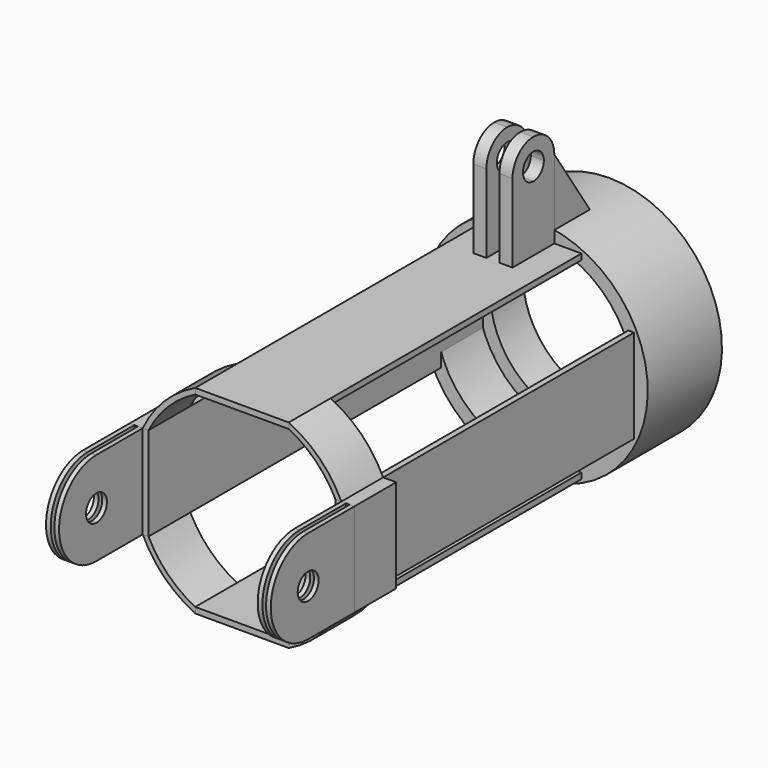
from build123d import *

# Parameters (mm, degrees)
F1_DEPTH  = 25.4
F2_DEPTH  = 203.2
F3_DEPTH  = 25.4
F6_DEPTH  = 63.5
F8_DEPTH  = 63.5
F5_R      = 6.35
F5_R_2    = 5.55625
F9_W      = 6.35
F9_H      = 25.4
F10_DEPTH = 50.8
F12_DEPTH = 12.7
F14_DEPTH = 50.8
F17_DEPTH = 63.5
F18_DEPTH = 9.525
F19_DEPTH = 3.175
F24_W     = 25.4079867154
F24_H     = 6.6675


with BuildPart() as f1:
    # F0 (on Front) → F1 (new body)
    with BuildSketch(Plane.XZ):
        with BuildLine():
            ThreePointArc((-22.7184506514, -45.4369013028), (-35.9210244843, -35.9210244843), (-45.4369013028, -22.7184506514))
            Line((-45.4369013028, -22.7184506514), (-48.26, -22.7184506514))
            ThreePointArc((-48.26, -22.7184506514), (-37.7170757085, -37.7170757085), (-22.7184506514, -48.26))
            Line((-22.7184506514, -48.26), (-22.7184506514, -45.4369013028))
        make_face()
    extrude(amount=F1_DEPTH)


with BuildPart() as f1b:
    # F0 (on Front) → F1, piece 2 (new body)
    with BuildSketch(Plane.XZ):
        with BuildLine():
            Line((48.26, -22.7184506514), (45.4369013028, -22.7184506514))
            ThreePointArc((45.4369013028, -22.7184506514), (35.9210244843, -35.9210244843), (22.7184506514, -45.4369013028))
            Line((22.7184506514, -45.4369013028), (22.7184506514, -48.26))
            ThreePointArc((22.7184506514, -48.26), (37.7170757085, -37.7170757085), (48.26, -22.7184506514))
        make_face()
    extrude(amount=F1_DEPTH)


with BuildPart() as f1c:
    # F0 (on Front) → F1, piece 3 (new body)
    with BuildSketch(Plane.XZ):
        with BuildLine():
            ThreePointArc((-45.4369013028, 22.7184506514), (-35.9210244843, 35.9210244843), (-22.7184506514, 45.4369013028))
            Line((-22.7184506514, 45.4369013028), (-22.7184506514, 48.26))
            ThreePointArc((-22.7184506514, 48.26), (-37.7170757085, 37.7170757085), (-48.26, 22.7184506514))
            Line((-48.26, 22.7184506514), (-45.4369013028, 22.7184506514))
        make_face()
    extrude(amount=F1_DEPTH)


with BuildPart() as f1d:
    # F0 (on Front) → F1, piece 4 (new body)
    with BuildSketch(Plane.XZ):
        with BuildLine():
            ThreePointArc((22.7184506514, 45.4369013028), (35.9210244843, 35.9210244843), (45.4369013028, 22.7184506514))
            Line((45.4369013028, 22.7184506514), (48.26, 22.7184506514))
            ThreePointArc((48.26, 22.7184506514), (37.7170757085, 37.7170757085), (22.7184506514, 48.26))
            Line((22.7184506514, 48.26), (22.7184506514, 45.4369013028))
        make_face()
    extrude(amount=F1_DEPTH)


with BuildPart() as f2:
    # F0 (on Front) → F2 (new body)
    with BuildSketch(Plane.XZ):
        with BuildLine():
            Line((-22.7184506514, 45.4369013028), (22.7184506514, 45.4369013028))
            ThreePointArc((22.7184506514, 45.4369013028), (19.3419480326, 46.9737059034), (15.8622949159, 48.26))
            Line((15.8622949159, 48.26), (0, 48.26))
            Line((0, 48.26), (-15.8622949159, 48.26))
            ThreePointArc((-15.8622949159, 48.26), (-19.3419480326, 46.9737059034), (-22.7184506514, 45.4369013028))
        make_face()
        with BuildLine():
            Line((-22.7184506514, 48.26), (-22.7184506514, 45.4369013028))
            ThreePointArc((-22.7184506514, 45.4369013028), (-19.3419480326, 46.9737059034), (-15.8622949159, 48.26))
            Line((-15.8622949159, 48.26), (-22.7184506514, 48.26))
        make_face()
        with BuildLine():
            ThreePointArc((15.8622949159, 48.26), (19.3419480326, 46.9737059034), (22.7184506514, 45.4369013028))
            Line((22.7184506514, 45.4369013028), (22.7184506514, 48.26))
            Line((22.7184506514, 48.26), (15.8622949159, 48.26))
        make_face()
    extrude(amount=F2_DEPTH)


with BuildPart() as f2b:
    # F0 (on Front) → F2, piece 2 (new body)
    with BuildSketch(Plane.XZ):
        with BuildLine():
            Line((48.26, 22.7184506514), (45.4369013028, 22.7184506514))
            ThreePointArc((45.4369013028, 22.7184506514), (46.9737059034, 19.3419480326), (48.26, 15.8622949159))
            Line((48.26, 15.8622949159), (48.26, 22.7184506514))
        make_face()
        with BuildLine():
            Line((48.26, 0), (45.4369013028, 0))
            Line((45.4369013028, 0), (45.4369013028, -22.7184506514))
            ThreePointArc((45.4369013028, -22.7184506514), (46.9737059034, -19.3419480326), (48.26, -15.8622949159))
            Line((48.26, -15.8622949159), (48.26, 0))
        make_face()
        with BuildLine():
            ThreePointArc((48.26, 15.8622949159), (46.9737059034, 19.3419480326), (45.4369013028, 22.7184506514))
            Line((45.4369013028, 22.7184506514), (45.4369013028, 0))
            Line((45.4369013028, 0), (48.26, 0))
            Line((48.26, 0), (48.26, 15.8622949159))
        make_face()
        with BuildLine():
            ThreePointArc((48.26, -15.8622949159), (46.9737059034, -19.3419480326), (45.4369013028, -22.7184506514))
            Line((45.4369013028, -22.7184506514), (48.26, -22.7184506514))
            Line((48.26, -22.7184506514), (48.26, -15.8622949159))
        make_face()
    extrude(amount=F2_DEPTH)


with BuildPart() as f2c:
    # F0 (on Front) → F2, piece 3 (new body)
    with BuildSketch(Plane.XZ):
        with BuildLine():
            Line((22.7184506514, -48.26), (22.7184506514, -45.4369013028))
            ThreePointArc((22.7184506514, -45.4369013028), (19.3419480326, -46.9737059034), (15.8622949159, -48.26))
            Line((15.8622949159, -48.26), (22.7184506514, -48.26))
        make_face()
        with BuildLine():
            ThreePointArc((15.8622949159, -48.26), (19.3419480326, -46.9737059034), (22.7184506514, -45.4369013028))
            Line((22.7184506514, -45.4369013028), (-22.7184506514, -45.4369013028))
            ThreePointArc((-22.7184506514, -45.4369013028), (-19.3419480326, -46.9737059034), (-15.8622949159, -48.26))
            Line((-15.8622949159, -48.26), (0, -48.26))
            Line((0, -48.26), (15.8622949159, -48.26))
        make_face()
        with BuildLine():
            ThreePointArc((-15.8622949159, -48.26), (-19.3419480326, -46.9737059034), (-22.7184506514, -45.4369013028))
            Line((-22.7184506514, -45.4369013028), (-22.7184506514, -48.26))
            Line((-22.7184506514, -48.26), (-15.8622949159, -48.26))
        make_face()
    extrude(amount=F2_DEPTH)


with BuildPart() as f2d:
    # F0 (on Front) → F2, piece 4 (new body)
    with BuildSketch(Plane.XZ):
        with BuildLine():
            Line((-48.26, -22.7184506514), (-45.4369013028, -22.7184506514))
            ThreePointArc((-45.4369013028, -22.7184506514), (-46.9737059034, -19.3419480326), (-48.26, -15.8622949159))
            Line((-48.26, -15.8622949159), (-48.26, -22.7184506514))
        make_face()
        with BuildLine():
            Line((-45.4369013028, -22.7184506514), (-45.4369013028, 22.7184506514))
            ThreePointArc((-45.4369013028, 22.7184506514), (-46.9737059034, 19.3419480326), (-48.26, 15.8622949159))
            Line((-48.26, 15.8622949159), (-48.26, 0))
            Line((-48.26, 0), (-48.26, -15.8622949159))
            ThreePointArc((-48.26, -15.8622949159), (-46.9737059034, -19.3419480326), (-45.4369013028, -22.7184506514))
        make_face()
        with BuildLine():
            ThreePointArc((-48.26, 15.8622949159), (-46.9737059034, 19.3419480326), (-45.4369013028, 22.7184506514))
            Line((-45.4369013028, 22.7184506514), (-48.26, 22.7184506514))
            Line((-48.26, 22.7184506514), (-48.26, 15.8622949159))
        make_face()
    extrude(amount=F2_DEPTH)


with BuildPart() as f3:
    # F0 (on Front) → F3 (new body)
    with BuildSketch(Plane.XZ):
        with BuildLine():
            Line((-48.26, 0), (-48.26, 15.8622949159))
            ThreePointArc((-48.26, 15.8622949159), (-49.6966311254, 10.5301877848), (-50.546, 5.0736460263))
            Line((-50.546, 5.0736460263), (-50.546, -5.0736460263))
            ThreePointArc((-50.546, -5.0736460263), (-49.6966311254, -10.5301877848), (-48.26, -15.8622949159))
            Line((-48.26, -15.8622949159), (-48.26, 0))
        make_face()
        with BuildLine():
            Line((-48.26, 15.8622949159), (-48.26, 22.7184506514))
            ThreePointArc((-48.26, 22.7184506514), (-49.4846065613, 19.910532727), (-50.546, 17.0369446791))
            Line((-50.546, 17.0369446791), (-50.546, 5.0736460263))
            ThreePointArc((-50.546, 5.0736460263), (-49.6966311254, 10.5301877848), (-48.26, 15.8622949159))
        make_face()
        with BuildLine():
            ThreePointArc((-52.324, 10.3612076516), (-51.5431915117, 13.7278916366), (-50.546, 17.0369446791))
            Line((-50.546, 17.0369446791), (-50.546, 22.7184506514))
            Line((-50.546, 22.7184506514), (-52.324, 22.7184506514))
            Line((-52.324, 22.7184506514), (-52.324, 10.3612076516))
        make_face()
        with BuildLine():
            Line((-50.546, -22.7184506514), (-48.26, -22.7184506514))
            ThreePointArc((-48.26, -22.7184506514), (-49.4846065613, -19.910532727), (-50.546, -17.0369446791))
            Line((-50.546, -17.0369446791), (-50.546, -22.7184506514))
        make_face()
        with BuildLine():
            ThreePointArc((-50.546, 17.0369446791), (-49.4846065613, 19.910532727), (-48.26, 22.7184506514))
            Line((-48.26, 22.7184506514), (-50.546, 22.7184506514))
            Line((-50.546, 22.7184506514), (-50.546, 17.0369446791))
        make_face()
        with BuildLine():
            Line((-48.26, -22.7184506514), (-48.26, -15.8622949159))
            ThreePointArc((-48.26, -15.8622949159), (-49.6966311254, -10.5301877848), (-50.546, -5.0736460263))
            Line((-50.546, -5.0736460263), (-50.546, -17.0369446791))
            ThreePointArc((-50.546, -17.0369446791), (-49.4846065613, -19.910532727), (-48.26, -22.7184506514))
        make_face()
        with BuildLine():
            Line((-50.546, 5.0736460263), (-50.546, 17.0369446791))
            ThreePointArc((-50.546, 17.0369446791), (-51.5431915117, 13.7278916366), (-52.324, 10.3612076516))
            Line((-52.324, 10.3612076516), (-52.324, -10.3612076516))
            ThreePointArc((-52.324, -10.3612076516), (-51.5431915117, -13.7278916366), (-50.546, -17.0369446791))
            Line((-50.546, -17.0369446791), (-50.546, -5.0736460263))
            ThreePointArc((-50.546, -5.0736460263), (-50.8, 0), (-50.546, 5.0736460263))
        make_face()
        with BuildLine():
            Line((-50.546, -22.7184506514), (-50.546, -17.0369446791))
            ThreePointArc((-50.546, -17.0369446791), (-51.5431915117, -13.7278916366), (-52.324, -10.3612076516))
            Line((-52.324, -10.3612076516), (-52.324, -22.7184506514))
            Line((-52.324, -22.7184506514), (-50.546, -22.7184506514))
        make_face()
        with BuildLine():
            ThreePointArc((-52.324, -10.3612076516), (-53.34, 0), (-52.324, 10.3612076516))
            Line((-52.324, 10.3612076516), (-52.324, 22.7184506514))
            Line((-52.324, 22.7184506514), (-54.61, 22.7184506514))
            Line((-54.61, 22.7184506514), (-54.61, -22.7184506514))
            Line((-54.61, -22.7184506514), (-52.324, -22.7184506514))
            Line((-52.324, -22.7184506514), (-52.324, -10.3612076516))
        make_face()
        with BuildLine():
            Line((-52.324, -10.3612076516), (-52.324, 10.3612076516))
            ThreePointArc((-52.324, 10.3612076516), (-53.34, 0), (-52.324, -10.3612076516))
        make_face()
        with BuildLine():
            Line((-48.26, -22.7184506514), (-48.26, -15.8622949159))
            ThreePointArc((-48.26, -15.8622949159), (-49.6966311254, -10.5301877848), (-50.546, -5.0736460263))
            Line((-50.546, -5.0736460263), (-50.546, -17.0369446791))
            ThreePointArc((-50.546, -17.0369446791), (-49.4846065613, -19.910532727), (-48.26, -22.7184506514))
        make_face()
        with BuildLine():
            Line((-50.546, 5.0736460263), (-50.546, 17.0369446791))
            ThreePointArc((-50.546, 17.0369446791), (-51.5431915117, 13.7278916366), (-52.324, 10.3612076516))
            Line((-52.324, 10.3612076516), (-52.324, -10.3612076516))
            ThreePointArc((-52.324, -10.3612076516), (-51.5431915117, -13.7278916366), (-50.546, -17.0369446791))
            Line((-50.546, -17.0369446791), (-50.546, -5.0736460263))
            ThreePointArc((-50.546, -5.0736460263), (-50.8, 0), (-50.546, 5.0736460263))
        make_face()
        with BuildLine():
            ThreePointArc((-52.324, -10.3612076516), (-53.34, 0), (-52.324, 10.3612076516))
            Line((-52.324, 10.3612076516), (-52.324, 22.7184506514))
            Line((-52.324, 22.7184506514), (-54.61, 22.7184506514))
            Line((-54.61, 22.7184506514), (-54.61, -22.7184506514))
            Line((-54.61, -22.7184506514), (-52.324, -22.7184506514))
            Line((-52.324, -22.7184506514), (-52.324, -10.3612076516))
        make_face()
    extrude(amount=F3_DEPTH)


with BuildPart() as f3b:
    # F0 (on Front) → F3, piece 2 (new body)
    with BuildSketch(Plane.XZ):
        with BuildLine():
            ThreePointArc((50.546, -17.0369446791), (49.4846065613, -19.910532727), (48.26, -22.7184506514))
            Line((48.26, -22.7184506514), (50.546, -22.7184506514))
            Line((50.546, -22.7184506514), (50.546, -17.0369446791))
        make_face()
        with BuildLine():
            Line((50.546, 22.7184506514), (50.546, 17.0369446791))
            ThreePointArc((50.546, 17.0369446791), (51.5431915117, 13.7278916366), (52.324, 10.3612076516))
            Line((52.324, 10.3612076516), (52.324, 22.7184506514))
            Line((52.324, 22.7184506514), (50.546, 22.7184506514))
        make_face()
        with BuildLine():
            Line((48.26, 22.7184506514), (48.26, 15.8622949159))
            ThreePointArc((48.26, 15.8622949159), (49.6966311254, 10.5301877848), (50.546, 5.0736460263))
            Line((50.546, 5.0736460263), (50.546, 17.0369446791))
            ThreePointArc((50.546, 17.0369446791), (49.4846065613, 19.910532727), (48.26, 22.7184506514))
        make_face()
        with BuildLine():
            ThreePointArc((50.546, 5.0736460263), (49.6966311254, 10.5301877848), (48.26, 15.8622949159))
            Line((48.26, 15.8622949159), (48.26, 0))
            Line((48.26, 0), (48.26, -15.8622949159))
            ThreePointArc((48.26, -15.8622949159), (49.6966311254, -10.5301877848), (50.546, -5.0736460263))
            Line((50.546, -5.0736460263), (50.546, 5.0736460263))
        make_face()
        with BuildLine():
            Line((50.546, 22.7184506514), (48.26, 22.7184506514))
            ThreePointArc((48.26, 22.7184506514), (49.4846065613, 19.910532727), (50.546, 17.0369446791))
            Line((50.546, 17.0369446791), (50.546, 22.7184506514))
        make_face()
        with BuildLine():
            Line((50.546, 17.0369446791), (50.546, 5.0736460263))
            ThreePointArc((50.546, 5.0736460263), (50.7364602628, 2.54), (50.8, 0))
            ThreePointArc((50.8, 0), (50.7364602628, -2.54), (50.546, -5.0736460263))
            Line((50.546, -5.0736460263), (50.546, -17.0369446791))
            ThreePointArc((50.546, -17.0369446791), (51.5431915117, -13.7278916366), (52.324, -10.3612076516))
            Line((52.324, -10.3612076516), (52.324, 10.3612076516))
            ThreePointArc((52.324, 10.3612076516), (51.5431915117, 13.7278916366), (50.546, 17.0369446791))
        make_face()
        with BuildLine():
            Line((50.546, -17.0369446791), (50.546, -5.0736460263))
            ThreePointArc((50.546, -5.0736460263), (49.6966311254, -10.5301877848), (48.26, -15.8622949159))
            Line((48.26, -15.8622949159), (48.26, -22.7184506514))
            ThreePointArc((48.26, -22.7184506514), (49.4846065613, -19.910532727), (50.546, -17.0369446791))
        make_face()
        with BuildLine():
            ThreePointArc((52.324, -10.3612076516), (51.5431915117, -13.7278916366), (50.546, -17.0369446791))
            Line((50.546, -17.0369446791), (50.546, -22.7184506514))
            Line((50.546, -22.7184506514), (52.324, -22.7184506514))
            Line((52.324, -22.7184506514), (52.324, -10.3612076516))
        make_face()
        with BuildLine():
            ThreePointArc((53.34, 0), (53.085392341, 5.2054509891), (52.324, 10.3612076516))
            Line((52.324, 10.3612076516), (52.324, -10.3612076516))
            ThreePointArc((52.324, -10.3612076516), (53.085392341, -5.2054509891), (53.34, 0))
        make_face()
        with BuildLine():
            ThreePointArc((53.34, 0), (53.085392341, 5.2054509891), (52.324, 10.3612076516))
            Line((52.324, 10.3612076516), (52.324, -10.3612076516))
            ThreePointArc((52.324, -10.3612076516), (53.085392341, -5.2054509891), (53.34, 0))
        make_face()
        with BuildLine():
            Line((50.546, -17.0369446791), (50.546, -5.0736460263))
            ThreePointArc((50.546, -5.0736460263), (49.6966311254, -10.5301877848), (48.26, -15.8622949159))
            Line((48.26, -15.8622949159), (48.26, -22.7184506514))
            ThreePointArc((48.26, -22.7184506514), (49.4846065613, -19.910532727), (50.546, -17.0369446791))
        make_face()
        with BuildLine():
            Line((52.324, 22.7184506514), (52.324, 10.3612076516))
            ThreePointArc((52.324, 10.3612076516), (53.085392341, 5.2054509891), (53.34, 0))
            ThreePointArc((53.34, 0), (53.085392341, -5.2054509891), (52.324, -10.3612076516))
            Line((52.324, -10.3612076516), (52.324, -22.7184506514))
            Line((52.324, -22.7184506514), (54.61, -22.7184506514))
            Line((54.61, -22.7184506514), (54.61, 22.7184506514))
            Line((54.61, 22.7184506514), (52.324, 22.7184506514))
        make_face()
    extrude(amount=F3_DEPTH)


with BuildPart() as f4_1:
    # F4: copy of F1d
    add(f1d.part.moved(Location((0, -177.8, 0))))


with BuildPart() as f4_2:
    # F4: copy of F1b
    add(f1b.part.moved(Location((0, -177.8, 0))))


with BuildPart() as f4_3:
    # F4: copy of F1
    add(f1.part.moved(Location((0, -177.8, 0))))


with BuildPart() as f4_4:
    # F4: copy of F1c
    add(f1c.part.moved(Location((0, -177.8, 0))))


with BuildPart() as f6:
    # F5 (on Right) → F6 (new body, symmetric)
    with BuildSketch(Plane.YZ):
        with BuildLine():
            ThreePointArc((34.4297, 0), (28.0797, 6.35), (21.7297, 0))
            ThreePointArc((21.7297, 0), (28.0797, -6.35), (34.4297, 0))
        make_face()
    extrude(amount=F6_DEPTH, both=True)


with BuildPart() as f6b:
    # F5 (on Right) → F6, piece 2 (new body, symmetric)
    with BuildSketch(Plane.YZ):
        with BuildLine():
            Line((50.8, 22.7203), (28.0797, 22.7203))
            ThreePointArc((28.0797, 22.7203), (44.1453782006, 16.0656782006), (50.8, 0))
            Line((50.8, 0), (50.8, 22.7203))
        make_face()
    extrude(amount=F6_DEPTH, both=True)


with BuildPart() as f6c:
    # F5 (on Right) → F6, piece 3 (new body, symmetric)
    with BuildSketch(Plane.YZ):
        with BuildLine():
            ThreePointArc((50.8, 0), (44.1453782006, -16.0656782006), (28.0797, -22.7203))
            Line((28.0797, -22.7203), (50.8, -22.7203))
            Line((50.8, -22.7203), (50.8, 0))
        make_face()
    extrude(amount=F6_DEPTH, both=True)


with BuildPart() as f7_1:
    # F7: copy of F3b
    add(f3b.part.moved(Location((0, -177.8, 0))))


with BuildPart() as f7_2:
    # F7: copy of F3
    add(f3.part.moved(Location((0, -177.8, 0))))


with BuildPart() as f8:
    # F5 (on Right) → F8 (new body, symmetric)
    with BuildSketch(Plane.YZ):
        with BuildLine():
            ThreePointArc((-231.2797, -22.7203), (-254, 0), (-231.2797, 22.7203))
            Line((-231.2797, 22.7203), (-254.2413, 22.7203))
            Line((-254.2413, 22.7203), (-254.2413, -22.7203))
            Line((-254.2413, -22.7203), (-231.2797, -22.7203))
        make_face()
        with BuildLine():
            ThreePointArc((-231.2797, -22.7203), (-254, 0), (-231.2797, 22.7203))
            Line((-231.2797, 22.7203), (-254.2413, 22.7203))
            Line((-254.2413, 22.7203), (-254.2413, -22.7203))
            Line((-254.2413, -22.7203), (-231.2797, -22.7203))
        make_face()
    extrude(amount=F8_DEPTH, both=True)


with BuildPart() as f8b:
    # F5 (on Right) → F8, piece 2 (new body, symmetric)
    with BuildSketch(Plane.YZ):
        with Locations((-231.2797, 0)):
            Circle(F5_R)
        with Locations((-231.2797, 0)):
            Circle(F5_R_2, mode=Mode.SUBTRACT)
        with Locations((-231.2797, 0)):
            Circle(F5_R_2)
    extrude(amount=F8_DEPTH, both=True)


with BuildPart() as f10:
    # F9 (on Top) → F10 (new body)
    with BuildSketch(Plane.XY):
        with Locations((-6.35, -38.1)):
            Rectangle(F9_W, F9_H)
    extrude(amount=F10_DEPTH)


with BuildPart() as f10b:
    # F9 (on Top) → F10, piece 2 (new body)
    with BuildSketch(Plane.XY):
        with Locations((6.35, -38.1)):
            Rectangle(F9_W, F9_H)
    extrude(amount=F10_DEPTH)


with BuildPart() as f10b_1:
    # F11: moved
    add(f10b.part.moved(Location((0, 0, 48.26))))


with BuildPart() as f10_1:
    # F11: moved
    add(f10.part.moved(Location((0, 0, 48.26))))


with BuildPart() as f12:
    # F5 (on Right) → F12 (new body, symmetric)
    with BuildSketch(Plane.YZ):
        with BuildLine():
            Line((-38.1, 86.36), (-31.75, 86.36))
            ThreePointArc((-31.75, 86.36), (-42.5901280605, 90.8501280605), (-38.1, 80.01))
            Line((-38.1, 80.01), (-38.1, 86.36))
        make_face()
        with BuildLine():
            ThreePointArc((-38.1, 80.01), (-33.6098719395, 81.8698719395), (-31.75, 86.36))
            Line((-31.75, 86.36), (-38.1, 86.36))
            Line((-38.1, 86.36), (-38.1, 80.01))
        make_face()
    extrude(amount=F12_DEPTH, both=True)


with BuildPart() as f12b:
    # F5 (on Right) → F12, piece 2 (new body, symmetric)
    with BuildSketch(Plane.YZ):
        with BuildLine():
            ThreePointArc((-38.1, 99.06), (-29.1197438789, 95.3402561211), (-25.4, 86.36))
            Line((-25.4, 86.36), (-25.4, 99.06))
            Line((-25.4, 99.06), (-38.1, 99.06))
        make_face()
    extrude(amount=F12_DEPTH, both=True)


with BuildPart() as f12c:
    # F5 (on Right) → F12, piece 3 (new body, symmetric)
    with BuildSketch(Plane.YZ):
        with BuildLine():
            ThreePointArc((-50.8, 86.36), (-47.0802561211, 95.3402561211), (-38.1, 99.06))
            Line((-38.1, 99.06), (-50.8, 99.06))
            Line((-50.8, 99.06), (-50.8, 86.36))
        make_face()
    extrude(amount=F12_DEPTH, both=True)


with BuildPart() as f10b_2:
    add(f10b_1.part)

    # F13: cut F12b, F12c, F12
    add(f12b.part, mode=Mode.SUBTRACT)
    add(f12c.part, mode=Mode.SUBTRACT)
    add(f12.part, mode=Mode.SUBTRACT)


with BuildPart() as f10_2:
    add(f10_1.part)

    # F13: cut F12b, F12c, F12
    add(f12b.part, mode=Mode.SUBTRACT)
    add(f12c.part, mode=Mode.SUBTRACT)
    add(f12.part, mode=Mode.SUBTRACT)


with BuildPart() as f14:
    # F0 (on Front) → F14 (new body)
    with BuildSketch(Plane.XZ):
        with BuildLine():
            Line((50.546, 22.7184506514), (48.26, 22.7184506514))
            ThreePointArc((48.26, 22.7184506514), (49.4846065613, 19.910532727), (50.546, 17.0369446791))
            Line((50.546, 17.0369446791), (50.546, 22.7184506514))
        make_face()
        with BuildLine():
            Line((48.26, 22.7184506514), (48.26, 15.8622949159))
            ThreePointArc((48.26, 15.8622949159), (49.6966311254, 10.5301877848), (50.546, 5.0736460263))
            Line((50.546, 5.0736460263), (50.546, 17.0369446791))
            ThreePointArc((50.546, 17.0369446791), (49.4846065613, 19.910532727), (48.26, 22.7184506514))
        make_face()
        with BuildLine():
            ThreePointArc((50.546, 5.0736460263), (49.6966311254, 10.5301877848), (48.26, 15.8622949159))
            Line((48.26, 15.8622949159), (48.26, 0))
            Line((48.26, 0), (48.26, -15.8622949159))
            ThreePointArc((48.26, -15.8622949159), (49.6966311254, -10.5301877848), (50.546, -5.0736460263))
            Line((50.546, -5.0736460263), (50.546, 5.0736460263))
        make_face()
        with BuildLine():
            Line((50.546, -17.0369446791), (50.546, -5.0736460263))
            ThreePointArc((50.546, -5.0736460263), (49.6966311254, -10.5301877848), (48.26, -15.8622949159))
            Line((48.26, -15.8622949159), (48.26, -22.7184506514))
            ThreePointArc((48.26, -22.7184506514), (49.4846065613, -19.910532727), (50.546, -17.0369446791))
        make_face()
        with BuildLine():
            ThreePointArc((50.546, -17.0369446791), (49.4846065613, -19.910532727), (48.26, -22.7184506514))
            Line((48.26, -22.7184506514), (50.546, -22.7184506514))
            Line((50.546, -22.7184506514), (50.546, -17.0369446791))
        make_face()
        with BuildLine():
            Line((50.546, 22.7184506514), (48.26, 22.7184506514))
            ThreePointArc((48.26, 22.7184506514), (49.4846065613, 19.910532727), (50.546, 17.0369446791))
            Line((50.546, 17.0369446791), (50.546, 22.7184506514))
        make_face()
        with BuildLine():
            Line((48.26, 22.7184506514), (48.26, 15.8622949159))
            ThreePointArc((48.26, 15.8622949159), (49.6966311254, 10.5301877848), (50.546, 5.0736460263))
            Line((50.546, 5.0736460263), (50.546, 17.0369446791))
            ThreePointArc((50.546, 17.0369446791), (49.4846065613, 19.910532727), (48.26, 22.7184506514))
        make_face()
        with BuildLine():
            ThreePointArc((50.546, 5.0736460263), (49.6966311254, 10.5301877848), (48.26, 15.8622949159))
            Line((48.26, 15.8622949159), (48.26, 0))
            Line((48.26, 0), (48.26, -15.8622949159))
            ThreePointArc((48.26, -15.8622949159), (49.6966311254, -10.5301877848), (50.546, -5.0736460263))
            Line((50.546, -5.0736460263), (50.546, 5.0736460263))
        make_face()
        with BuildLine():
            Line((50.546, -17.0369446791), (50.546, -5.0736460263))
            ThreePointArc((50.546, -5.0736460263), (49.6966311254, -10.5301877848), (48.26, -15.8622949159))
            Line((48.26, -15.8622949159), (48.26, -22.7184506514))
            ThreePointArc((48.26, -22.7184506514), (49.4846065613, -19.910532727), (50.546, -17.0369446791))
        make_face()
        with BuildLine():
            ThreePointArc((50.546, -17.0369446791), (49.4846065613, -19.910532727), (48.26, -22.7184506514))
            Line((48.26, -22.7184506514), (50.546, -22.7184506514))
            Line((50.546, -22.7184506514), (50.546, -17.0369446791))
        make_face()
    extrude(amount=-F14_DEPTH)


with BuildPart() as f14b:
    # F0 (on Front) → F14, piece 2 (new body)
    with BuildSketch(Plane.XZ):
        with BuildLine():
            Line((52.324, 22.7184506514), (52.324, 10.3612076516))
            ThreePointArc((52.324, 10.3612076516), (53.085392341, 5.2054509891), (53.34, 0))
            ThreePointArc((53.34, 0), (53.085392341, -5.2054509891), (52.324, -10.3612076516))
            Line((52.324, -10.3612076516), (52.324, -22.7184506514))
            Line((52.324, -22.7184506514), (54.61, -22.7184506514))
            Line((54.61, -22.7184506514), (54.61, 22.7184506514))
            Line((54.61, 22.7184506514), (52.324, 22.7184506514))
        make_face()
        with BuildLine():
            ThreePointArc((53.34, 0), (53.085392341, 5.2054509891), (52.324, 10.3612076516))
            Line((52.324, 10.3612076516), (52.324, -10.3612076516))
            ThreePointArc((52.324, -10.3612076516), (53.085392341, -5.2054509891), (53.34, 0))
        make_face()
        with BuildLine():
            Line((52.324, 22.7184506514), (52.324, 10.3612076516))
            ThreePointArc((52.324, 10.3612076516), (53.085392341, 5.2054509891), (53.34, 0))
            ThreePointArc((53.34, 0), (53.085392341, -5.2054509891), (52.324, -10.3612076516))
            Line((52.324, -10.3612076516), (52.324, -22.7184506514))
            Line((52.324, -22.7184506514), (54.61, -22.7184506514))
            Line((54.61, -22.7184506514), (54.61, 22.7184506514))
            Line((54.61, 22.7184506514), (52.324, 22.7184506514))
        make_face()
        with BuildLine():
            ThreePointArc((53.34, 0), (53.085392341, 5.2054509891), (52.324, 10.3612076516))
            Line((52.324, 10.3612076516), (52.324, -10.3612076516))
            ThreePointArc((52.324, -10.3612076516), (53.085392341, -5.2054509891), (53.34, 0))
        make_face()
    extrude(amount=-F14_DEPTH)


with BuildPart() as f14c:
    # F0 (on Front) → F14, piece 3 (new body)
    with BuildSketch(Plane.XZ):
        with BuildLine():
            ThreePointArc((-52.324, -10.3612076516), (-53.34, 0), (-52.324, 10.3612076516))
            Line((-52.324, 10.3612076516), (-52.324, 22.7184506514))
            Line((-52.324, 22.7184506514), (-54.61, 22.7184506514))
            Line((-54.61, 22.7184506514), (-54.61, -22.7184506514))
            Line((-54.61, -22.7184506514), (-52.324, -22.7184506514))
            Line((-52.324, -22.7184506514), (-52.324, -10.3612076516))
        make_face()
        with BuildLine():
            Line((-52.324, -10.3612076516), (-52.324, 10.3612076516))
            ThreePointArc((-52.324, 10.3612076516), (-53.34, 0), (-52.324, -10.3612076516))
        make_face()
        with BuildLine():
            ThreePointArc((-52.324, -10.3612076516), (-53.34, 0), (-52.324, 10.3612076516))
            Line((-52.324, 10.3612076516), (-52.324, 22.7184506514))
            Line((-52.324, 22.7184506514), (-54.61, 22.7184506514))
            Line((-54.61, 22.7184506514), (-54.61, -22.7184506514))
            Line((-54.61, -22.7184506514), (-52.324, -22.7184506514))
            Line((-52.324, -22.7184506514), (-52.324, -10.3612076516))
        make_face()
        with BuildLine():
            Line((-52.324, -10.3612076516), (-52.324, 10.3612076516))
            ThreePointArc((-52.324, 10.3612076516), (-53.34, 0), (-52.324, -10.3612076516))
        make_face()
    extrude(amount=-F14_DEPTH)


with BuildPart() as f14d:
    # F0 (on Front) → F14, piece 4 (new body)
    with BuildSketch(Plane.XZ):
        with BuildLine():
            Line((-48.26, 0), (-48.26, 15.8622949159))
            ThreePointArc((-48.26, 15.8622949159), (-49.6966311254, 10.5301877848), (-50.546, 5.0736460263))
            Line((-50.546, 5.0736460263), (-50.546, -5.0736460263))
            ThreePointArc((-50.546, -5.0736460263), (-49.6966311254, -10.5301877848), (-48.26, -15.8622949159))
            Line((-48.26, -15.8622949159), (-48.26, 0))
        make_face()
        with BuildLine():
            Line((-48.26, 15.8622949159), (-48.26, 22.7184506514))
            ThreePointArc((-48.26, 22.7184506514), (-49.4846065613, 19.910532727), (-50.546, 17.0369446791))
            Line((-50.546, 17.0369446791), (-50.546, 5.0736460263))
            ThreePointArc((-50.546, 5.0736460263), (-49.6966311254, 10.5301877848), (-48.26, 15.8622949159))
        make_face()
        with BuildLine():
            ThreePointArc((-50.546, 17.0369446791), (-49.4846065613, 19.910532727), (-48.26, 22.7184506514))
            Line((-48.26, 22.7184506514), (-50.546, 22.7184506514))
            Line((-50.546, 22.7184506514), (-50.546, 17.0369446791))
        make_face()
        with BuildLine():
            Line((-48.26, -22.7184506514), (-48.26, -15.8622949159))
            ThreePointArc((-48.26, -15.8622949159), (-49.6966311254, -10.5301877848), (-50.546, -5.0736460263))
            Line((-50.546, -5.0736460263), (-50.546, -17.0369446791))
            ThreePointArc((-50.546, -17.0369446791), (-49.4846065613, -19.910532727), (-48.26, -22.7184506514))
        make_face()
        with BuildLine():
            Line((-50.546, -22.7184506514), (-48.26, -22.7184506514))
            ThreePointArc((-48.26, -22.7184506514), (-49.4846065613, -19.910532727), (-50.546, -17.0369446791))
            Line((-50.546, -17.0369446791), (-50.546, -22.7184506514))
        make_face()
        with BuildLine():
            Line((-48.26, 15.8622949159), (-48.26, 22.7184506514))
            ThreePointArc((-48.26, 22.7184506514), (-49.4846065613, 19.910532727), (-50.546, 17.0369446791))
            Line((-50.546, 17.0369446791), (-50.546, 5.0736460263))
            ThreePointArc((-50.546, 5.0736460263), (-49.6966311254, 10.5301877848), (-48.26, 15.8622949159))
        make_face()
        with BuildLine():
            ThreePointArc((-50.546, 17.0369446791), (-49.4846065613, 19.910532727), (-48.26, 22.7184506514))
            Line((-48.26, 22.7184506514), (-50.546, 22.7184506514))
            Line((-50.546, 22.7184506514), (-50.546, 17.0369446791))
        make_face()
        with BuildLine():
            Line((-48.26, 0), (-48.26, 15.8622949159))
            ThreePointArc((-48.26, 15.8622949159), (-49.6966311254, 10.5301877848), (-50.546, 5.0736460263))
            Line((-50.546, 5.0736460263), (-50.546, -5.0736460263))
            ThreePointArc((-50.546, -5.0736460263), (-49.6966311254, -10.5301877848), (-48.26, -15.8622949159))
            Line((-48.26, -15.8622949159), (-48.26, 0))
        make_face()
        with BuildLine():
            Line((-48.26, -22.7184506514), (-48.26, -15.8622949159))
            ThreePointArc((-48.26, -15.8622949159), (-49.6966311254, -10.5301877848), (-50.546, -5.0736460263))
            Line((-50.546, -5.0736460263), (-50.546, -17.0369446791))
            ThreePointArc((-50.546, -17.0369446791), (-49.4846065613, -19.910532727), (-48.26, -22.7184506514))
        make_face()
        with BuildLine():
            Line((-50.546, -22.7184506514), (-48.26, -22.7184506514))
            ThreePointArc((-48.26, -22.7184506514), (-49.4846065613, -19.910532727), (-50.546, -17.0369446791))
            Line((-50.546, -17.0369446791), (-50.546, -22.7184506514))
        make_face()
    extrude(amount=-F14_DEPTH)


with BuildPart() as f15_1:
    # F15: copy of F14
    add(f14.part.moved(Location((0, -254, 0))))

    # F16: cut F6b, F6c, F6, F8, F8b
    add(f6b.part, mode=Mode.SUBTRACT)
    add(f6c.part, mode=Mode.SUBTRACT)
    add(f6.part, mode=Mode.SUBTRACT)
    add(f8.part, mode=Mode.SUBTRACT)
    add(f8b.part, mode=Mode.SUBTRACT)


with BuildPart() as f15_2:
    # F15: copy of F14b
    add(f14b.part.moved(Location((0, -254, 0))))

    # F16: cut F6b, F6c, F6, F8, F8b
    add(f6b.part, mode=Mode.SUBTRACT)
    add(f6c.part, mode=Mode.SUBTRACT)
    add(f6.part, mode=Mode.SUBTRACT)
    add(f8.part, mode=Mode.SUBTRACT)
    add(f8b.part, mode=Mode.SUBTRACT)


with BuildPart() as f15_3:
    # F15: copy of F14d
    add(f14d.part.moved(Location((0, -254, 0))))

    # F16: cut F6b, F6c, F6, F8, F8b
    add(f6b.part, mode=Mode.SUBTRACT)
    add(f6c.part, mode=Mode.SUBTRACT)
    add(f6.part, mode=Mode.SUBTRACT)
    add(f8.part, mode=Mode.SUBTRACT)
    add(f8b.part, mode=Mode.SUBTRACT)


with BuildPart() as f15_4:
    # F15: copy of F14c
    add(f14c.part.moved(Location((0, -254, 0))))

    # F16: cut F6b, F6c, F6, F8, F8b
    add(f6b.part, mode=Mode.SUBTRACT)
    add(f6c.part, mode=Mode.SUBTRACT)
    add(f6.part, mode=Mode.SUBTRACT)
    add(f8.part, mode=Mode.SUBTRACT)
    add(f8b.part, mode=Mode.SUBTRACT)


with BuildPart() as f14_1:
    add(f14.part)

    # F16: cut F6b, F6c, F6, F8, F8b
    add(f6b.part, mode=Mode.SUBTRACT)
    add(f6c.part, mode=Mode.SUBTRACT)
    add(f6.part, mode=Mode.SUBTRACT)
    add(f8.part, mode=Mode.SUBTRACT)
    add(f8b.part, mode=Mode.SUBTRACT)


with BuildPart() as f14b_1:
    add(f14b.part)

    # F16: cut F6b, F6c, F6, F8, F8b
    add(f6b.part, mode=Mode.SUBTRACT)
    add(f6c.part, mode=Mode.SUBTRACT)
    add(f6.part, mode=Mode.SUBTRACT)
    add(f8.part, mode=Mode.SUBTRACT)
    add(f8b.part, mode=Mode.SUBTRACT)


with BuildPart() as f14d_1:
    add(f14d.part)

    # F16: cut F6b, F6c, F6, F8, F8b
    add(f6b.part, mode=Mode.SUBTRACT)
    add(f6c.part, mode=Mode.SUBTRACT)
    add(f6.part, mode=Mode.SUBTRACT)
    add(f8.part, mode=Mode.SUBTRACT)
    add(f8b.part, mode=Mode.SUBTRACT)


with BuildPart() as f14c_1:
    add(f14c.part)

    # F16: cut F6b, F6c, F6, F8, F8b
    add(f6b.part, mode=Mode.SUBTRACT)
    add(f6c.part, mode=Mode.SUBTRACT)
    add(f6.part, mode=Mode.SUBTRACT)
    add(f8.part, mode=Mode.SUBTRACT)
    add(f8b.part, mode=Mode.SUBTRACT)


with BuildPart() as f17:
    # F5 (on Right) → F17 (new body, symmetric)
    with BuildSketch(Plane.YZ):
        with BuildLine():
            ThreePointArc((-231.2797, -22.7203), (-254, 0), (-231.2797, 22.7203))
            Line((-231.2797, 22.7203), (-254.2413, 22.7203))
            Line((-254.2413, 22.7203), (-254.2413, -22.7203))
            Line((-254.2413, -22.7203), (-231.2797, -22.7203))
        make_face()
    extrude(amount=F17_DEPTH, both=True)


with BuildPart() as f17b:
    # F5 (on Right) → F17, piece 2 (new body, symmetric)
    with BuildSketch(Plane.YZ):
        with BuildLine():
            Line((50.8, 22.7203), (28.0797, 22.7203))
            ThreePointArc((28.0797, 22.7203), (44.1453782006, 16.0656782006), (50.8, 0))
            Line((50.8, 0), (50.8, 22.7203))
        make_face()
    extrude(amount=F17_DEPTH, both=True)


with BuildPart() as f17c:
    # F5 (on Right) → F17, piece 3 (new body, symmetric)
    with BuildSketch(Plane.YZ):
        with BuildLine():
            ThreePointArc((50.8, 0), (44.1453782006, -16.0656782006), (28.0797, -22.7203))
            Line((28.0797, -22.7203), (50.8, -22.7203))
            Line((50.8, -22.7203), (50.8, 0))
        make_face()
    extrude(amount=F17_DEPTH, both=True)


with BuildPart() as f18:
    # F5 (on Right) → F18 (new body, symmetric)
    with BuildSketch(Plane.YZ):
        Polygon((-25.4, 48.26), (0, 48.26), (-25.4, 86.36), align=None)
    extrude(amount=F18_DEPTH, both=True)


with BuildPart() as f19:
    # F5 (on Right) → F19 (new body, symmetric)
    with BuildSketch(Plane.YZ):
        Polygon((-25.4, 48.26), (0, 48.26), (-25.4, 86.36), align=None)
    extrude(amount=F19_DEPTH, both=True)


with BuildPart() as f18_1:
    add(f18.part)

    # F20: cut F19
    add(f19.part, mode=Mode.SUBTRACT)


with BuildPart() as f25:
    # F24 (on Right) → F25 (revolve)
    with BuildSketch(Plane.YZ):
        Polygon((0, 54.9275), (0, 48.26), (3.175, 48.26), (3.175, 51.7525), (19.685, 51.7525), (19.685, 54.9275), align=None)
        Polygon((0, 48.26), (0, 41.91), (6.35, 41.91), (19.685, 41.91), (19.685, 48.26), (13.335, 48.26), (13.335, 44.7675), (6.35, 44.7675), (6.35, 48.26), (3.175, 48.26), align=None)
        with Locations((-12.7039933577, 51.59375)):
            Rectangle(F24_W, F24_H)
    revolve(axis=Axis((0, 14.03985, 0), (0, 1, 0)))


solid = Compound([f1.part, f1b.part, f1c.part, f1d.part, f2.part, f2b.part, f2c.part, f2d.part, f4_1.part, f4_2.part, f4_3.part, f4_4.part, f7_1.part, f7_2.part, f10b_2.part, f10_2.part, f15_1.part, f15_2.part, f15_3.part, f15_4.part, f18_1.part, f25.part])
